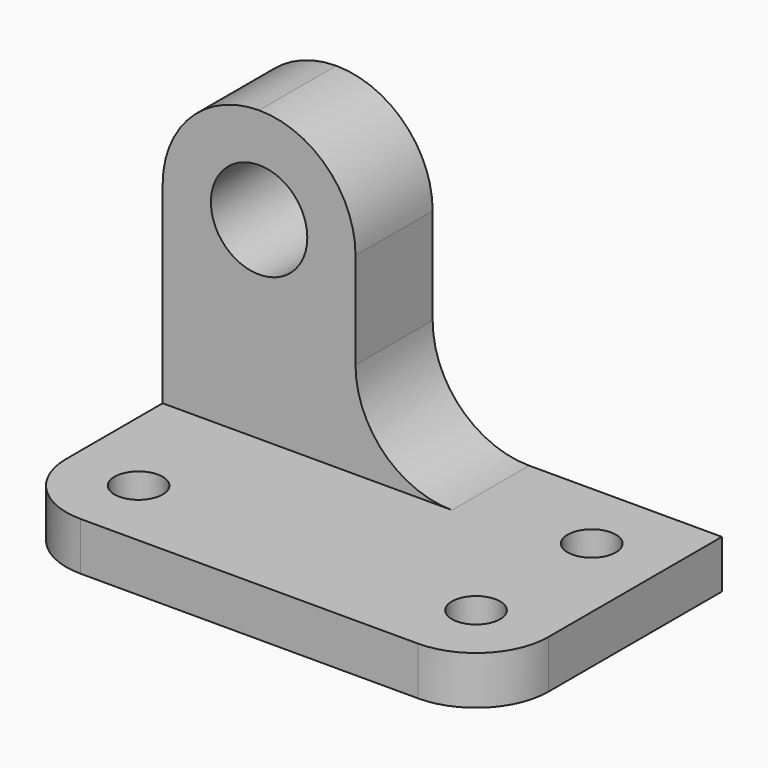
from build123d import *

# Parameters (mm, degrees)
F1_DEPTH  = 63.5
F2_W      = 25.4
F2_H      = 38.1
F3_DEPTH  = 25.4
F4_W      = 12.7
F4_H      = 12.7
F5_DEPTH  = 25.4
F6_R      = 6.35
F7_DEPTH  = 25.4
F8_W      = 12.7
F8_H      = 12.7
F9_DEPTH  = 25.4
F11_DEPTH = 25.4
F12_R     = 3.175
F13_DEPTH = 25.4


with BuildPart() as f1:
    # F0 (on Right) → F1 (new body)
    with BuildSketch(Plane.YZ):
        Polygon((-38.1, 0), (0, 0), (0, 44.45), (-12.7, 44.45), (-12.7, 6.35), (-38.1, 6.35), align=None)
    extrude(amount=F1_DEPTH)

    # F2 (on face) → F3 (cut)
    with BuildSketch(Plane.XZ.offset(12.7)):
        with Locations((50.8, 25.4)):
            Rectangle(F2_W, F2_H)
    extrude(amount=-F3_DEPTH, mode=Mode.SUBTRACT)

    # F4 (on face) → F5 (cut)
    with BuildSketch(Plane.XZ.offset(12.7)):
        with Locations((31.75, 38.1)):
            Rectangle(F4_W, F4_H)
    extrude(amount=-F5_DEPTH, mode=Mode.SUBTRACT)

    # F6 (on face) → F7 (cut)
    with BuildSketch(Plane.XZ.offset(12.7)):
        with Locations((12.7, 31.75)):
            Circle(F6_R)
        with BuildLine():
            ThreePointArc((0, 31.75), (3.7197438789, 40.7302561211), (12.7, 44.45))
            Line((12.7, 44.45), (0, 44.45))
            Line((0, 44.45), (0, 31.75))
        make_face()
        with BuildLine():
            ThreePointArc((12.7, 44.45), (21.6802561211, 40.7302561211), (25.4, 31.75))
            Line((25.4, 31.75), (25.4, 44.45))
            Line((25.4, 44.45), (12.7, 44.45))
        make_face()
    extrude(amount=-F7_DEPTH, mode=Mode.SUBTRACT)

    # F8 (on face) → F9 (cut)
    with BuildSketch(Plane.XZ.offset(12.7)):
        with Locations((31.75, 25.4)):
            Rectangle(F8_W, F8_H)
    extrude(amount=-F9_DEPTH, mode=Mode.SUBTRACT)

    # F10 (on face) → F11 (cut)
    with BuildSketch(Plane.XZ.offset(12.7)):
        with BuildLine():
            ThreePointArc((25.4, 19.05), (29.1197438789, 10.0697438789), (38.1, 6.35))
            Line((38.1, 6.35), (38.1, 19.05))
            Line((38.1, 19.05), (25.4, 19.05))
        make_face()
    extrude(amount=-F11_DEPTH, mode=Mode.SUBTRACT)

    # F12 (on face) → F13 (cut)
    with BuildSketch(Plane.XY.offset(6.35)):
        with Locations((53.975, -9.525)):
            Circle(F12_R)
        with Locations((53.975, -28.575)):
            Circle(F12_R)
        with Locations((9.525, -28.575)):
            Circle(F12_R)
        with BuildLine():
            Line((0, -38.1), (9.525, -38.1))
            ThreePointArc((9.525, -38.1), (2.7898079092, -35.3101920908), (0, -28.575))
            Line((0, -28.575), (0, -38.1))
        make_face()
        with BuildLine():
            ThreePointArc((63.5, -28.575), (60.7101920908, -35.3101920908), (53.975, -38.1))
            Line((53.975, -38.1), (63.5, -38.1))
            Line((63.5, -38.1), (63.5, -28.575))
        make_face()
    extrude(amount=-F13_DEPTH, mode=Mode.SUBTRACT)


solid = f1.part
